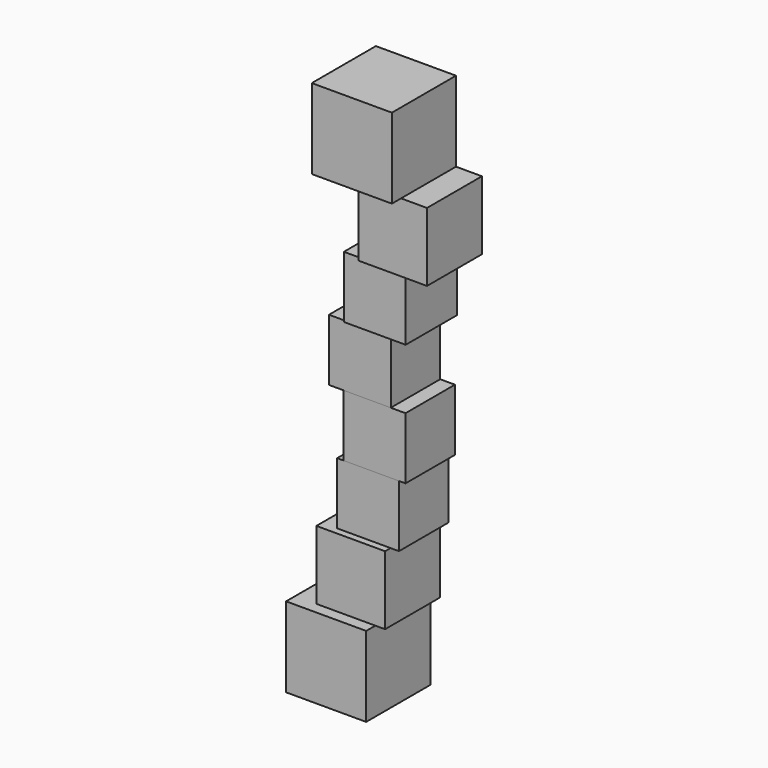
from build123d import *

# Parameters (mm, degrees)
F4_DEPTH = 350
F5_DEPTH = 300
F6_DEPTH = 270
F7_DEPTH = 270
F8_DEPTH = 270
F9_DEPTH = 280


with BuildPart() as f4:
    # F3 (on Front) → F4 (new body)
    with BuildSketch(Plane.XZ):
        Polygon((13.6533863842, 410), (13.6533863842, 60), (363.6533863842, 60), (363.6533863842, 410), (106.1394568533, 410), align=None)
    extrude(amount=F4_DEPTH)


with BuildPart() as f4b:
    # F3 (on Front) → F4, piece 2 (new body)
    with BuildSketch(Plane.XZ):
        Polygon((125.9381771088, 2090), (289.3347740173, 2090), (475.9381771088, 2090), (475.9381771088, 2440), (125.9381771088, 2440), align=None)
    extrude(amount=F4_DEPTH)


with BuildPart() as f5:
    # F3 (on Front) → F5 (new body)
    with BuildSketch(Plane.XZ):
        Polygon((106.1394568533, 410), (363.6533863842, 410), (406.1394568533, 410), (406.1394568533, 710), (172.8452146053, 710), (106.1394568533, 710), align=None)
    extrude(amount=F5_DEPTH)


with BuildPart() as f5b:
    # F3 (on Front) → F5, piece 2 (new body)
    with BuildSketch(Plane.XZ):
        Polygon((289.3347740173, 1790), (480.2133631706, 1790), (589.3347740173, 1790), (589.3347740173, 2090), (475.9381771088, 2090), (289.3347740173, 2090), align=None)
    extrude(amount=F5_DEPTH)


with BuildPart() as f6:
    # F3 (on Front) → F6 (new body)
    with BuildSketch(Plane.XZ):
        Polygon((172.8452146053, 710), (406.1394568533, 710), (442.8452146053, 710), (442.8452146053, 980), (201.476752758, 980), (172.8452146053, 980), align=None)
    extrude(amount=F6_DEPTH)


with BuildPart() as f7:
    # F3 (on Front) → F7 (new body)
    with BuildSketch(Plane.XZ):
        Polygon((201.476752758, 980), (442.8452146053, 980), (471.476752758, 980), (471.476752758, 1250), (407.0549201965, 1250), (201.476752758, 1250), align=None)
    extrude(amount=F7_DEPTH)


with BuildPart() as f8:
    # F3 (on Front) → F8 (new body)
    with BuildSketch(Plane.XZ):
        Polygon((137.0549201965, 1250), (201.476752758, 1250), (407.0549201965, 1250), (407.0549201965, 1520), (210.2133631706, 1520), (137.0549201965, 1520), align=None)
    extrude(amount=F8_DEPTH)


with BuildPart() as f9:
    # F3 (on Front) → F9 (new body)
    with BuildSketch(Plane.XZ):
        Polygon((210.2133631706, 1520), (407.0549201965, 1520), (480.2133631706, 1520), (480.2133631706, 1790), (289.3347740173, 1790), (210.2133631706, 1790), align=None)
    extrude(amount=F9_DEPTH)


solid = Compound([f4.part, f4b.part, f5.part, f5b.part, f6.part, f7.part, f8.part, f9.part])
